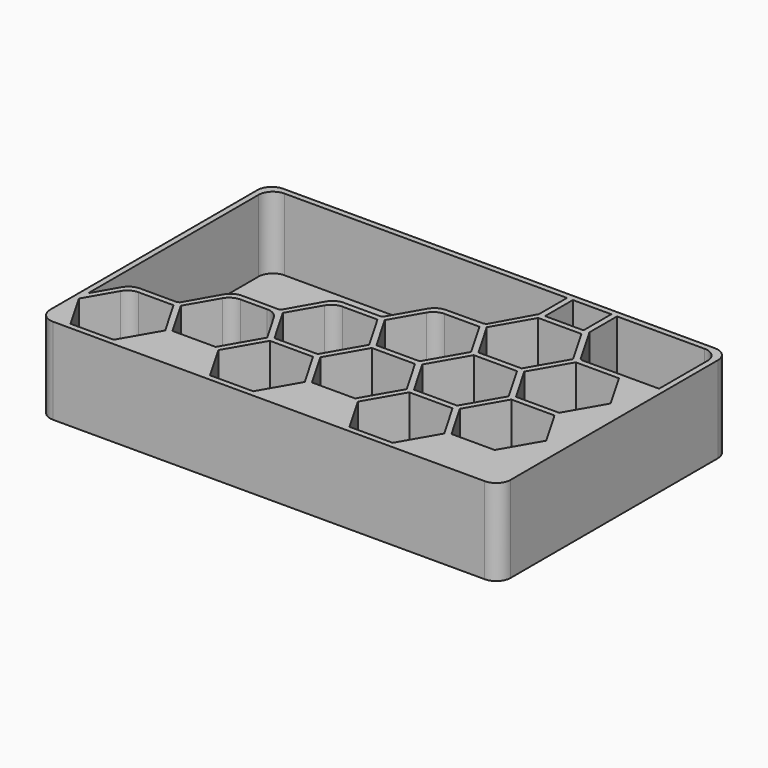
from build123d import *

# Parameters (mm, degrees)
F0_W     = 160
F0_H     = 100
F1_DEPTH = 30
F3_DEPTH = 25
F5_DEPTH = 25
F6_R     = 5
F7_R     = 5
F8_R     = 5


with BuildPart() as f1:
    # F0 (on Top) → F1 (new body)
    with BuildSketch(Plane.XY):
        Rectangle(F0_W, F0_H)
    extrude(amount=F1_DEPTH)

    # F2 (on face) → F3 (cut)
    with BuildSketch(Plane.XY.offset(30)):
        Polygon((-70.5, -48), (-55.5, -48), (-48, -35.009619), (-55.5, -22.019238), (-70.5, -22.019238), (-78, -35.009619), align=None)
        Polygon((-31.267949, -8.028857), (-46.267949, -8.028857), (-53.767949, -21.019238), (-46.267949, -34.009619), (-31.267949, -34.009619), (-23.767949, -21.019238), align=None)
        Polygon((-7.035898, 5.961524), (-22.035898, 5.961524), (-29.535898, -7.028857), (-22.035898, -20.019238), (-7.035898, -20.019238), (0.464102, -7.028857), align=None)
        Polygon((17.196152, 19.951905), (2.196152, 19.951905), (-5.303848, 6.961524), (2.196152, -6.028857), (17.196152, -6.028857), (24.696152, 6.961524), align=None)
        Polygon((41.428203, 33.942286), (26.428203, 33.942286), (18.928203, 20.951905), (26.428203, 7.961524), (41.428203, 7.961524), (48.928203, 20.951905), align=None)
        Polygon((-7.035898, -22.019238), (-22.035898, -22.019238), (-29.535898, -35.009619), (-22.035898, -48), (-7.035898, -48), (0.464102, -35.009619), align=None)
        Polygon((17.196152, -8.028857), (2.196152, -8.028857), (-5.303848, -21.019238), (2.196152, -34.009619), (17.196152, -34.009619), (24.696152, -21.019238), align=None)
        Polygon((41.428203, 5.961524), (26.428203, 5.961524), (18.928203, -7.028857), (26.428203, -20.019238), (41.428203, -20.019238), (48.928203, -7.028857), align=None)
        Polygon((65.660254, 19.951905), (50.660254, 19.951905), (43.160254, 6.961524), (50.660254, -6.028857), (65.660254, -6.028857), (73.160254, 6.961524), align=None)
        Polygon((41.428203, -22.019238), (26.428203, -22.019238), (18.928203, -35.009619), (26.428203, -48), (41.428203, -48), (48.928203, -35.009619), align=None)
        Polygon((65.660254, -8.028857), (50.660254, -8.028857), (43.160254, -21.019238), (50.660254, -34.009619), (65.660254, -34.009619), (73.160254, -21.019238), align=None)
    extrude(amount=-F3_DEPTH, mode=Mode.SUBTRACT)

    # F4 (on face) → F5 (cut, through all)
    with BuildSketch(Plane.XY.offset(30)):
        Polygon((51.196152, 21.951905), (78, 21.951905), (78, 48), (42.549597, 48), (42.549597, 35.999976), (50.392305, 22.416007), align=None)
        Polygon((16.891695, 22.092275), (17.743567, 22.433024), (25.18436, 35.821269), (25.18436, 48), (-78, 48), (-78, -31.009619), (-71.654701, -20.019238), (-55.989621, -20.019238), (-55.132385, -19.572759), (-47.427833, -6.022478), (-31.684874, -6.108645), (-30.913347, -5.594294), (-23.198907, 7.961524), (-7.571797, 7.961524), (-6.767949, 8.425626), (1.035106, 21.940913), align=None)
        Polygon((40.549597, 48.023537), (27.18436, 48.023537), (27.18436, 35.942286), (33.928203, 35.942286), (40.549597, 35.942286), align=None)
    extrude(amount=-F5_DEPTH, mode=Mode.SUBTRACT)

    # F6
    f6_edges = [f1.edges().sort_by_distance(p)[0] for p in [
        (-46.267949, -8.028857, 17.5),
        (-31.267949, -8.028857, 17.5),
    ]]
    fillet(f6_edges, radius=F6_R)

    # F7
    f7_edges = [f1.edges().sort_by_distance(p)[0] for p in [
        (-80, -50, 15),
        (80, -50, 15),
        (80, 50, 15),
        (-80, 50, 15),
        (-78, 48, 17.5),
        (78, 48, 17.5),
    ]]
    fillet(f7_edges, radius=F7_R)

    # F8
    f8_edges = [f1.edges().sort_by_distance(p)[0] for p in [
        (-23.198907, 7.961524, 17.5),
        (1.035106, 21.940913, 17.5),
        (-47.427833, -6.022478, 17.5),
        (-71.654701, -20.019238, 17.5),
        (-70.5, -22.019238, 17.5),
        (-22.035898, 5.961524, 17.5),
        (2.196152, 19.951905, 17.5),
    ]]
    fillet(f8_edges, radius=F8_R)


solid = f1.part
